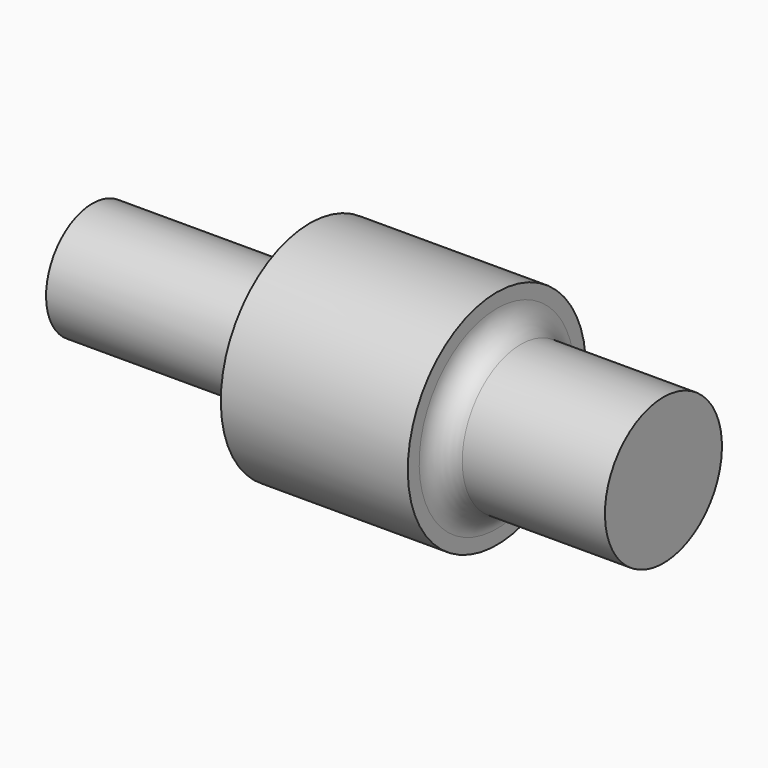
from build123d import *


with BuildPart() as f1:
    # F0 (on Front) → F1 (revolve)
    with BuildSketch(Plane.XZ):
        with BuildLine():
            Line((-67.176946, 0), (0, 0))
            Line((0, 0), (52.278299, 0))
            Line((52.278299, 0), (52.278299, 15.29772))
            Line((52.278299, 15.29772), (22.426098, 15.29772))
            ThreePointArc((22.426098, 15.29772), (18.890564, 16.762186), (17.426098, 20.29772))
            Line((17.426098, 20.29772), (17.426098, 23.27914))
            Line((17.426098, 23.27914), (-21.682857, 23.27914))
            Line((-21.682857, 23.27914), (-21.682857, 17.105153))
            ThreePointArc((-21.682857, 17.105153), (-23.147323, 13.569619), (-26.682857, 12.105153))
            Line((-26.682857, 12.105153), (-67.176946, 12.105153))
            Line((-67.176946, 12.105153), (-67.176946, 0))
        make_face()
    revolve(axis=Axis((-33.588473, 0, 0), (-1, 0, 0)))


solid = f1.part
